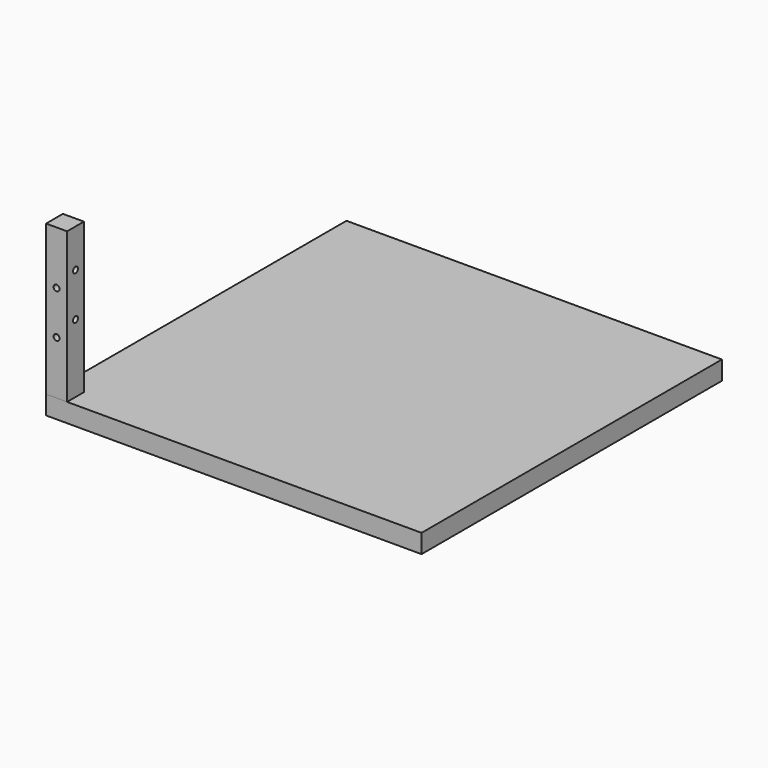
from build123d import *

# Parameters (mm, degrees)
F0_W     = 500
F0_H     = 500
F1_DEPTH = 25
F2_W     = 28
F2_H     = 28
F3_DEPTH = 200
F4_R     = 4
F5_DEPTH = 30
F6_R     = 4
F7_DEPTH = 30


with BuildPart() as f1:
    # F0 (on Top) → F1 (new body)
    with BuildSketch(Plane.XY):
        with Locations((250, 250)):
            Rectangle(F0_W, F0_H)
    extrude(amount=-F1_DEPTH)


with BuildPart() as f3:
    # F2 (on Top) → F3 (new body)
    with BuildSketch(Plane.XY):
        with Locations((14, 14)):
            Rectangle(F2_W, F2_H)
    extrude(amount=F3_DEPTH)

    # F4 (on face) → F5 (cut)
    with BuildSketch(Plane.XZ):
        with Locations((14, 129)):
            Circle(F4_R)
        with Locations((14, 71)):
            Circle(F4_R)
    extrude(amount=-F5_DEPTH, mode=Mode.SUBTRACT)

    # F6 (on face) → F7 (cut)
    with BuildSketch(Plane(origin=(0, 0, 0), x_dir=(0, -1, 0), z_dir=(-1, 0, 0))):
        with Locations((-14, 149)):
            Circle(F6_R)
        with Locations((-14, 91)):
            Circle(F6_R)
    extrude(amount=-F7_DEPTH, mode=Mode.SUBTRACT)


solid = Compound([f1.part, f3.part])
